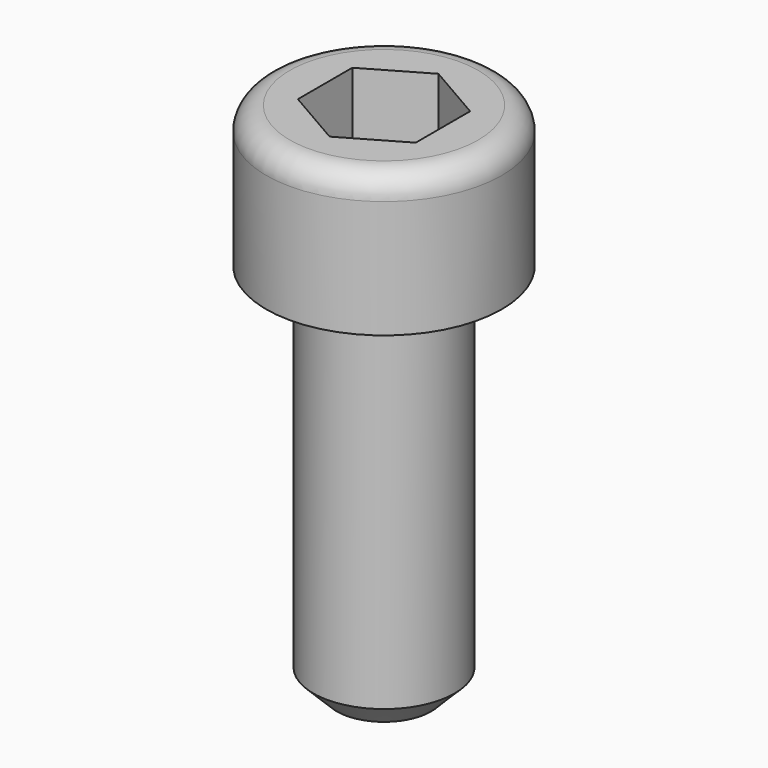
from build123d import *

# Parameters (mm, degrees)
FILLET_R     = 1
POCKET_DEPTH = 3


with BuildPart() as part:
    # Sketch → Revolution (revolve)
    with BuildSketch(Plane.XZ):
        Polygon((0, 0), (0, 22), (5, 22), (5, 16), (3, 16), (3, 12), (3, 1), (2, 0), align=None)
    revolve(axis=Axis((0, 0, 0), (0, 0, 1)))

    # Fillet
    fillet_edges = [part.edges().sort_by_distance(p)[0] for p in [
        (-5, 0, 22),
    ]]
    fillet(fillet_edges, radius=FILLET_R)

    # Sketch001 (on DatumPlane) → Pocket (cut)
    with BuildSketch(Plane.XY.offset(22)):
        Polygon((2.5, 1.443376), (0, 2.886751), (-2.5, 1.443376), (-2.5, -1.443376), (0, -2.886751), (2.5, -1.443376), align=None)
    extrude(amount=-POCKET_DEPTH, mode=Mode.SUBTRACT)


solid = part.part
